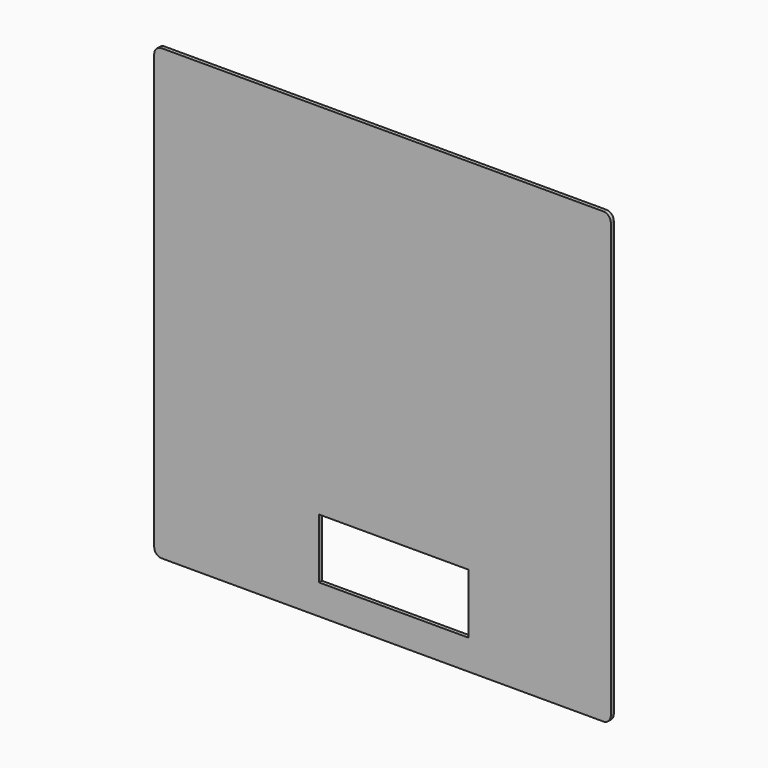
from build123d import *

# Parameters (mm, degrees)
F0_W     = 127
F0_H     = 50.8
F1_DEPTH = 3.175


with BuildPart() as f1:
    # F0 (on Front) → F1 (new body)
    with BuildSketch(Plane.XZ):
        with BuildLine():
            ThreePointArc((0, 6.35), (1.859872, 1.859872), (6.35, 0))
            Line((6.35, 0), (381, 0))
            ThreePointArc((381, 0), (385.490128, 1.859872), (387.35, 6.35))
            Line((387.35, 6.35), (387.35, 374.65))
            ThreePointArc((387.35, 374.65), (385.490128, 379.140128), (381, 381))
            Line((381, 381), (6.35, 381))
            ThreePointArc((6.35, 381), (1.859872, 379.140128), (0, 374.65))
            Line((0, 374.65), (0, 6.35))
        make_face()
        with Locations((203.2, 50.8)):
            Rectangle(F0_W, F0_H, mode=Mode.SUBTRACT)
    extrude(amount=F1_DEPTH)


solid = f1.part
